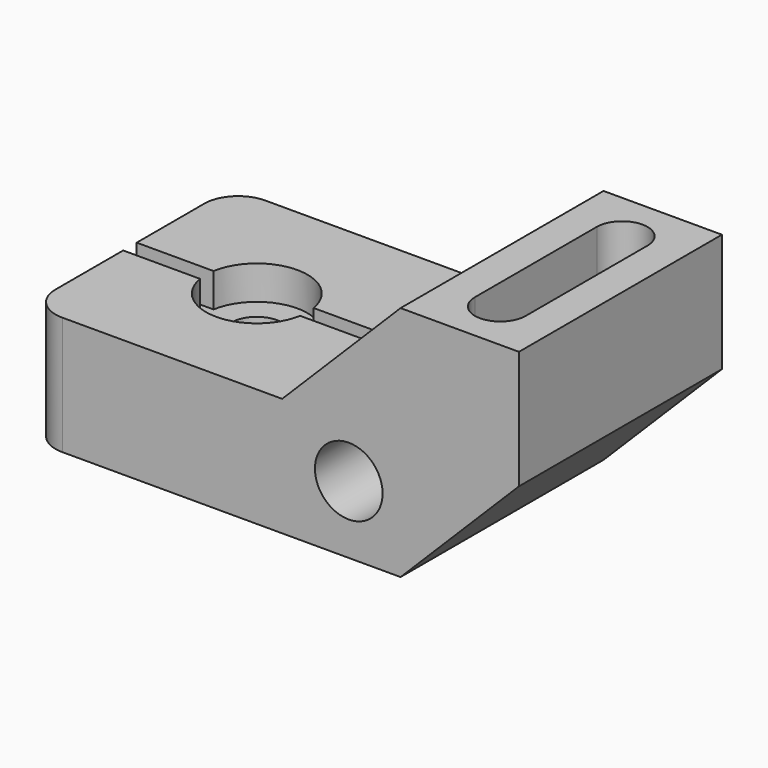
from build123d import *

# Parameters (mm, degrees)
F0_R     = 10.16
F1_DEPTH = 76.2
F3_DEPTH = 27.94
F5_DEPTH = 10.16
F6_R     = 7.62
F7_DEPTH = 10.16
F8_R     = 10.16


with BuildPart() as f1:
    # F0 (on Front) → F1 (new body)
    with BuildSketch(Plane.XZ):
        Polygon((-96.203486, 15.24), (-96.203486, -20.32), (15.556514, -20.32), (51.116514, 15.24), (51.116514, 50.8), (15.556514, 50.8), (-20.003486, 15.24), align=None)
        Circle(F0_R, mode=Mode.SUBTRACT)
    extrude(amount=-F1_DEPTH)

    # F2 (on face) → F3 (cut)
    with BuildSketch(Plane.XY.offset(50.8)):
        with BuildLine():
            ThreePointArc((25.716514, 15.24), (33.336514, 7.62), (40.956514, 15.24))
            Line((40.956514, 15.24), (40.956514, 60.96))
            ThreePointArc((40.956514, 60.96), (33.336514, 68.58), (25.716514, 60.96))
            Line((25.716514, 60.96), (25.716514, 15.24))
        make_face()
    extrude(amount=-F3_DEPTH, mode=Mode.SUBTRACT)

    # F4 (on face) → F5 (cut)
    with BuildSketch(Plane.XY.offset(15.24)):
        with BuildLine():
            Line((-20.003486, 40.64), (-43.076643, 40.64))
            ThreePointArc((-43.076643, 40.64), (-58.103486, 53.34), (-73.130329, 40.64))
            Line((-73.130329, 40.64), (-96.203486, 40.64))
            Line((-96.203486, 40.64), (-96.203486, 35.56))
            Line((-96.203486, 35.56), (-73.130329, 35.56))
            ThreePointArc((-73.130329, 35.56), (-58.103486, 22.86), (-43.076643, 35.56))
            Line((-43.076643, 35.56), (-20.003486, 35.56))
            Line((-20.003486, 35.56), (-20.003486, 40.64))
        make_face()
    extrude(amount=-F5_DEPTH, mode=Mode.SUBTRACT)

    # F6 (on face) → F7 (cut)
    with BuildSketch(Plane.XY.offset(5.08)):
        with Locations((-58.103486, 38.1)):
            Circle(F6_R)
    extrude(amount=-F7_DEPTH, mode=Mode.SUBTRACT)

    # F8
    f8_edges = [f1.edges().sort_by_distance(p)[0] for p in [
        (-96.203486, 0, -2.54),
        (-96.203486, 76.2, -2.54),
    ]]
    fillet(f8_edges, radius=F8_R)


solid = f1.part
